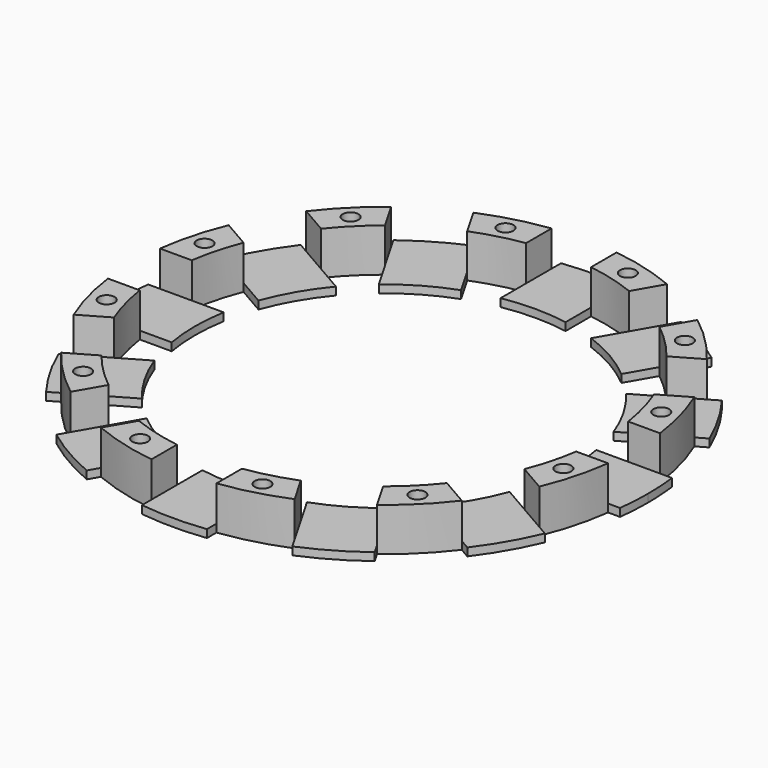
from build123d import *

# Parameters (mm, degrees)
F1_DEPTH = 2
F0_R     = 2
F2_DEPTH = 11


with BuildPart() as f1:
    # F0 (on Top) → F1 (new body)
    with BuildSketch(Plane.XY):
        with BuildLine():
            ThreePointArc((36.8256181272, 30.7875599804), (41.5692193817, 24), (45.0756181272, 16.498140818))
            Line((45.0756181272, 16.498140818), (52.0932512189, 20.5497731726))
            ThreePointArc((52.0932512189, 20.5497731726), (48.4974226119, 28), (43.8432512189, 34.839192335))
            Line((43.8432512189, 34.839192335), (36.8256181272, 30.7875599804))
        make_face()
        with BuildLine():
            ThreePointArc((43.8432512189, 34.839192335), (48.4974226119, 28), (52.0932512189, 20.5497731726))
            Line((52.0932512189, 20.5497731726), (59.0881979146, 24.5883075303))
            ThreePointArc((59.0881979146, 24.5883075303), (55.4256258422, 32), (50.8381979146, 38.8777266927))
            Line((50.8381979146, 38.8777266927), (43.8432512189, 34.839192335))
        make_face()
        with BuildLine():
            ThreePointArc((50.8381979146, 38.8777266927), (55.4256258422, 32), (59.0881979146, 24.5883075303))
            Line((59.0881979146, 24.5883075303), (61.7071424141, 26.1003558421))
            ThreePointArc((61.7071424141, 26.1003558421), (58.0237020536, 33.5), (53.4571424141, 40.3897750045))
            Line((53.4571424141, 40.3897750045), (50.8381979146, 38.8777266927))
        make_face()
    extrude(amount=F1_DEPTH)



with BuildPart() as f1b:
    # F0 (on Top) → F1, piece 2 (new body)
    with BuildSketch(Plane.XY):
        with BuildLine():
            ThreePointArc((48, 0), (47.8210917814, -4.1404324457), (47.2857007984, -8.25))
            Line((47.2857007984, -8.25), (55.3889655076, -8.25))
            ThreePointArc((55.3889655076, -8.25), (55.8470324566, -4.1362985612), (56, 0))
            ThreePointArc((56, 0), (55.8470324566, 4.1362985612), (55.3889655076, 8.25))
            Line((55.3889655076, 8.25), (47.2857007984, 8.25))
            ThreePointArc((47.2857007984, 8.25), (47.8210917814, 4.1404324457), (48, 0))
        make_face()
        with BuildLine():
            ThreePointArc((56, 0), (55.8470324566, -4.1362985612), (55.3889655076, -8.25))
            Line((55.3889655076, -8.25), (63.466034223, -8.25))
            ThreePointArc((63.466034223, -8.25), (63.8663690461, -4.1336309539), (64, 0))
            ThreePointArc((64, 0), (63.8663690461, 4.1336309539), (63.466034223, 8.25))
            Line((63.466034223, 8.25), (55.3889655076, 8.25))
            ThreePointArc((55.3889655076, 8.25), (55.8470324566, 4.1362985612), (56, 0))
        make_face()
        with BuildLine():
            ThreePointArc((64, 0), (63.8663690461, -4.1336309539), (63.466034223, -8.25))
            Line((63.466034223, -8.25), (66.4901308466, -8.25))
            ThreePointArc((66.4901308466, -8.25), (66.8724112274, -4.1328702663), (67, 0))
            ThreePointArc((67, 0), (66.8724112274, 4.1328702663), (66.4901308466, 8.25))
            Line((66.4901308466, 8.25), (63.466034223, 8.25))
            ThreePointArc((63.466034223, 8.25), (63.8663690461, 4.1336309539), (64, 0))
        make_face()
    extrude(amount=F1_DEPTH)


with BuildPart() as f1c:
    # F0 (on Top) → F1, piece 3 (new body)
    with BuildSketch(Plane.XY):
        with BuildLine():
            ThreePointArc((45.0756181272, -16.498140818), (41.5692193817, -24), (36.8256181272, -30.7875599804))
            Line((36.8256181272, -30.7875599804), (43.8432512189, -34.839192335))
            ThreePointArc((43.8432512189, -34.839192335), (48.4974226119, -28), (52.0932512189, -20.5497731726))
            Line((52.0932512189, -20.5497731726), (45.0756181272, -16.498140818))
        make_face()
        with BuildLine():
            ThreePointArc((52.0932512189, -20.5497731726), (48.4974226119, -28), (43.8432512189, -34.839192335))
            Line((43.8432512189, -34.839192335), (50.8381979146, -38.8777266927))
            ThreePointArc((50.8381979146, -38.8777266927), (55.4256258422, -32), (59.0881979146, -24.5883075303))
            Line((59.0881979146, -24.5883075303), (52.0932512189, -20.5497731726))
        make_face()
        with BuildLine():
            ThreePointArc((59.0881979146, -24.5883075303), (55.4256258422, -32), (50.8381979146, -38.8777266927))
            Line((50.8381979146, -38.8777266927), (53.4571424141, -40.3897750045))
            ThreePointArc((53.4571424141, -40.3897750045), (58.0237020536, -33.5), (61.7071424141, -26.1003558421))
            Line((61.7071424141, -26.1003558421), (59.0881979146, -24.5883075303))
        make_face()
    extrude(amount=F1_DEPTH)


with BuildPart() as f1d:
    # F0 (on Top) → F1, piece 4 (new body)
    with BuildSketch(Plane.XY):
        with BuildLine():
            ThreePointArc((30.7875599804, -36.8256181272), (24, -41.5692193817), (16.498140818, -45.0756181272))
            Line((16.498140818, -45.0756181272), (20.5497731726, -52.0932512189))
            ThreePointArc((20.5497731726, -52.0932512189), (28, -48.4974226119), (34.839192335, -43.8432512189))
            Line((34.839192335, -43.8432512189), (30.7875599804, -36.8256181272))
        make_face()
        with BuildLine():
            ThreePointArc((34.839192335, -43.8432512189), (28, -48.4974226119), (20.5497731726, -52.0932512189))
            Line((20.5497731726, -52.0932512189), (24.5883075303, -59.0881979146))
            ThreePointArc((24.5883075303, -59.0881979146), (32, -55.4256258422), (38.8777266927, -50.8381979146))
            Line((38.8777266927, -50.8381979146), (34.839192335, -43.8432512189))
        make_face()
        with BuildLine():
            ThreePointArc((38.8777266927, -50.8381979146), (32, -55.4256258422), (24.5883075303, -59.0881979146))
            Line((24.5883075303, -59.0881979146), (26.1003558421, -61.7071424141))
            ThreePointArc((26.1003558421, -61.7071424141), (33.5, -58.0237020536), (40.3897750045, -53.4571424141))
            Line((40.3897750045, -53.4571424141), (38.8777266927, -50.8381979146))
        make_face()
    extrude(amount=F1_DEPTH)


with BuildPart() as f1e:
    # F0 (on Top) → F1, piece 5 (new body)
    with BuildSketch(Plane.XY):
        with BuildLine():
            Line((8.25, -55.3889655076), (8.25, -47.2857007984))
            ThreePointArc((8.25, -47.2857007984), (0, -48), (-8.25, -47.2857007984))
            Line((-8.25, -47.2857007984), (-8.25, -55.3889655076))
            ThreePointArc((-8.25, -55.3889655076), (0, -56), (8.25, -55.3889655076))
        make_face()
        with BuildLine():
            Line((8.25, -63.466034223), (8.25, -55.3889655076))
            ThreePointArc((8.25, -55.3889655076), (0, -56), (-8.25, -55.3889655076))
            Line((-8.25, -55.3889655076), (-8.25, -63.466034223))
            ThreePointArc((-8.25, -63.466034223), (0, -64), (8.25, -63.466034223))
        make_face()
        with BuildLine():
            Line((8.25, -66.4901308466), (8.25, -63.466034223))
            ThreePointArc((8.25, -63.466034223), (0, -64), (-8.25, -63.466034223))
            Line((-8.25, -63.466034223), (-8.25, -66.4901308466))
            ThreePointArc((-8.25, -66.4901308466), (0, -67), (8.25, -66.4901308466))
        make_face()
    extrude(amount=F1_DEPTH)


with BuildPart() as f1f:
    # F0 (on Top) → F1, piece 6 (new body)
    with BuildSketch(Plane.XY):
        with BuildLine():
            Line((-26.1003558421, -61.7071424141), (-24.5883075303, -59.0881979146))
            ThreePointArc((-24.5883075303, -59.0881979146), (-32, -55.4256258422), (-38.8777266927, -50.8381979146))
            Line((-38.8777266927, -50.8381979146), (-40.3897750045, -53.4571424141))
            ThreePointArc((-40.3897750045, -53.4571424141), (-33.5, -58.0237020536), (-26.1003558421, -61.7071424141))
        make_face()
        with BuildLine():
            Line((-24.5883075303, -59.0881979146), (-20.5497731726, -52.0932512189))
            ThreePointArc((-20.5497731726, -52.0932512189), (-28, -48.4974226119), (-34.839192335, -43.8432512189))
            Line((-34.839192335, -43.8432512189), (-38.8777266927, -50.8381979146))
            ThreePointArc((-38.8777266927, -50.8381979146), (-32, -55.4256258422), (-24.5883075303, -59.0881979146))
        make_face()
        with BuildLine():
            Line((-20.5497731726, -52.0932512189), (-16.498140818, -45.0756181272))
            ThreePointArc((-16.498140818, -45.0756181272), (-24, -41.5692193817), (-30.7875599804, -36.8256181272))
            Line((-30.7875599804, -36.8256181272), (-34.839192335, -43.8432512189))
            ThreePointArc((-34.839192335, -43.8432512189), (-28, -48.4974226119), (-20.5497731726, -52.0932512189))
        make_face()
    extrude(amount=F1_DEPTH)


with BuildPart() as f1g:
    # F0 (on Top) → F1, piece 7 (new body)
    with BuildSketch(Plane.XY):
        with BuildLine():
            Line((-43.8432512189, -34.839192335), (-36.8256181272, -30.7875599804))
            ThreePointArc((-36.8256181272, -30.7875599804), (-41.5692193817, -24), (-45.0756181272, -16.498140818))
            Line((-45.0756181272, -16.498140818), (-52.0932512189, -20.5497731726))
            ThreePointArc((-52.0932512189, -20.5497731726), (-48.4974226119, -28), (-43.8432512189, -34.839192335))
        make_face()
        with BuildLine():
            Line((-50.8381979146, -38.8777266927), (-43.8432512189, -34.839192335))
            ThreePointArc((-43.8432512189, -34.839192335), (-48.4974226119, -28), (-52.0932512189, -20.5497731726))
            Line((-52.0932512189, -20.5497731726), (-59.0881979146, -24.5883075303))
            ThreePointArc((-59.0881979146, -24.5883075303), (-55.4256258422, -32), (-50.8381979146, -38.8777266927))
        make_face()
        with BuildLine():
            Line((-53.4571424141, -40.3897750045), (-50.8381979146, -38.8777266927))
            ThreePointArc((-50.8381979146, -38.8777266927), (-55.4256258422, -32), (-59.0881979146, -24.5883075303))
            Line((-59.0881979146, -24.5883075303), (-61.7071424141, -26.1003558421))
            ThreePointArc((-61.7071424141, -26.1003558421), (-58.0237020536, -33.5), (-53.4571424141, -40.3897750045))
        make_face()
    extrude(amount=F1_DEPTH)


with BuildPart() as f1h:
    # F0 (on Top) → F1, piece 8 (new body)
    with BuildSketch(Plane.XY):
        with BuildLine():
            Line((-66.4901308466, -8.25), (-63.466034223, -8.25))
            ThreePointArc((-63.466034223, -8.25), (-64, 0), (-63.466034223, 8.25))
            Line((-63.466034223, 8.25), (-66.4901308466, 8.25))
            ThreePointArc((-66.4901308466, 8.25), (-67, 0), (-66.4901308466, -8.25))
        make_face()
        with BuildLine():
            Line((-63.466034223, -8.25), (-55.3889655076, -8.25))
            ThreePointArc((-55.3889655076, -8.25), (-56, 0), (-55.3889655076, 8.25))
            Line((-55.3889655076, 8.25), (-63.466034223, 8.25))
            ThreePointArc((-63.466034223, 8.25), (-64, 0), (-63.466034223, -8.25))
        make_face()
        with BuildLine():
            Line((-55.3889655076, -8.25), (-47.2857007984, -8.25))
            ThreePointArc((-47.2857007984, -8.25), (-48, 0), (-47.2857007984, 8.25))
            Line((-47.2857007984, 8.25), (-55.3889655076, 8.25))
            ThreePointArc((-55.3889655076, 8.25), (-56, 0), (-55.3889655076, -8.25))
        make_face()
    extrude(amount=F1_DEPTH)


with BuildPart() as f1i:
    # F0 (on Top) → F1, piece 9 (new body)
    with BuildSketch(Plane.XY):
        with BuildLine():
            Line((-61.7071424141, 26.1003558421), (-59.0881979146, 24.5883075303))
            ThreePointArc((-59.0881979146, 24.5883075303), (-55.4256258422, 32), (-50.8381979146, 38.8777266927))
            Line((-50.8381979146, 38.8777266927), (-53.4571424141, 40.3897750045))
            ThreePointArc((-53.4571424141, 40.3897750045), (-58.0237020536, 33.5), (-61.7071424141, 26.1003558421))
        make_face()
        with BuildLine():
            Line((-59.0881979146, 24.5883075303), (-52.0932512189, 20.5497731726))
            ThreePointArc((-52.0932512189, 20.5497731726), (-48.4974226119, 28), (-43.8432512189, 34.839192335))
            Line((-43.8432512189, 34.839192335), (-50.8381979146, 38.8777266927))
            ThreePointArc((-50.8381979146, 38.8777266927), (-55.4256258422, 32), (-59.0881979146, 24.5883075303))
        make_face()
        with BuildLine():
            Line((-52.0932512189, 20.5497731726), (-45.0756181272, 16.498140818))
            ThreePointArc((-45.0756181272, 16.498140818), (-41.5692193817, 24), (-36.8256181272, 30.7875599804))
            Line((-36.8256181272, 30.7875599804), (-43.8432512189, 34.839192335))
            ThreePointArc((-43.8432512189, 34.839192335), (-48.4974226119, 28), (-52.0932512189, 20.5497731726))
        make_face()
    extrude(amount=F1_DEPTH)


with BuildPart() as f1j:
    # F0 (on Top) → F1, piece 10 (new body)
    with BuildSketch(Plane.XY):
        with BuildLine():
            Line((-40.3897750045, 53.4571424141), (-38.8777266927, 50.8381979146))
            ThreePointArc((-38.8777266927, 50.8381979146), (-32, 55.4256258422), (-24.5883075303, 59.0881979146))
            Line((-24.5883075303, 59.0881979146), (-26.1003558421, 61.7071424141))
            ThreePointArc((-26.1003558421, 61.7071424141), (-33.5, 58.0237020536), (-40.3897750045, 53.4571424141))
        make_face()
        with BuildLine():
            Line((-38.8777266927, 50.8381979146), (-34.839192335, 43.8432512189))
            ThreePointArc((-34.839192335, 43.8432512189), (-28, 48.4974226119), (-20.5497731726, 52.0932512189))
            Line((-20.5497731726, 52.0932512189), (-24.5883075303, 59.0881979146))
            ThreePointArc((-24.5883075303, 59.0881979146), (-32, 55.4256258422), (-38.8777266927, 50.8381979146))
        make_face()
        with BuildLine():
            Line((-34.839192335, 43.8432512189), (-30.7875599804, 36.8256181272))
            ThreePointArc((-30.7875599804, 36.8256181272), (-24, 41.5692193817), (-16.498140818, 45.0756181272))
            Line((-16.498140818, 45.0756181272), (-20.5497731726, 52.0932512189))
            ThreePointArc((-20.5497731726, 52.0932512189), (-28, 48.4974226119), (-34.839192335, 43.8432512189))
        make_face()
    extrude(amount=F1_DEPTH)


with BuildPart() as f1k:
    # F0 (on Top) → F1, piece 11 (new body)
    with BuildSketch(Plane.XY):
        with BuildLine():
            Line((-8.25, 66.4901308466), (-8.25, 63.466034223))
            ThreePointArc((-8.25, 63.466034223), (0, 64), (8.25, 63.466034223))
            Line((8.25, 63.466034223), (8.25, 66.4901308466))
            ThreePointArc((8.25, 66.4901308466), (0, 67), (-8.25, 66.4901308466))
        make_face()
        with BuildLine():
            Line((-8.25, 63.466034223), (-8.25, 55.3889655076))
            ThreePointArc((-8.25, 55.3889655076), (0, 56), (8.25, 55.3889655076))
            Line((8.25, 55.3889655076), (8.25, 63.466034223))
            ThreePointArc((8.25, 63.466034223), (0, 64), (-8.25, 63.466034223))
        make_face()
        with BuildLine():
            Line((-8.25, 55.3889655076), (-8.25, 47.2857007984))
            ThreePointArc((-8.25, 47.2857007984), (0, 48), (8.25, 47.2857007984))
            Line((8.25, 47.2857007984), (8.25, 55.3889655076))
            ThreePointArc((8.25, 55.3889655076), (0, 56), (-8.25, 55.3889655076))
        make_face()
    extrude(amount=F1_DEPTH)


with BuildPart() as f1l:
    # F0 (on Top) → F1, piece 12 (new body)
    with BuildSketch(Plane.XY):
        with BuildLine():
            ThreePointArc((24.5883075303, 59.0881979146), (32, 55.4256258422), (38.8777266927, 50.8381979146))
            Line((38.8777266927, 50.8381979146), (40.3897750045, 53.4571424141))
            ThreePointArc((40.3897750045, 53.4571424141), (33.5, 58.0237020536), (26.1003558421, 61.7071424141))
            Line((26.1003558421, 61.7071424141), (24.5883075303, 59.0881979146))
        make_face()
        with BuildLine():
            ThreePointArc((20.5497731726, 52.0932512189), (28, 48.4974226119), (34.839192335, 43.8432512189))
            Line((34.839192335, 43.8432512189), (38.8777266927, 50.8381979146))
            ThreePointArc((38.8777266927, 50.8381979146), (32, 55.4256258422), (24.5883075303, 59.0881979146))
            Line((24.5883075303, 59.0881979146), (20.5497731726, 52.0932512189))
        make_face()
        with BuildLine():
            ThreePointArc((16.498140818, 45.0756181272), (24, 41.5692193817), (30.7875599804, 36.8256181272))
            Line((30.7875599804, 36.8256181272), (34.839192335, 43.8432512189))
            ThreePointArc((34.839192335, 43.8432512189), (28, 48.4974226119), (20.5497731726, 52.0932512189))
            Line((20.5497731726, 52.0932512189), (16.498140818, 45.0756181272))
        make_face()
    extrude(amount=F1_DEPTH)


with BuildPart() as f1_1:
    add(f1.part)

    add(f1b.part)  # F2 merges F1b

    add(f1c.part)  # F2 merges F1c

    add(f1d.part)  # F2 merges F1d

    add(f1e.part)  # F2 merges F1e

    add(f1f.part)  # F2 merges F1f

    add(f1g.part)  # F2 merges F1g

    add(f1h.part)  # F2 merges F1h

    add(f1i.part)  # F2 merges F1i

    add(f1j.part)  # F2 merges F1j

    add(f1k.part)  # F2 merges F1k

    add(f1l.part)  # F2 merges F1l
    # F0 (on Top) → F2 (join)
    with BuildSketch(Plane.XY):
        with BuildLine():
            ThreePointArc((8.25, 55.3889655076), (14.4938665257, 54.0918462722), (20.5497731726, 52.0932512189))
            Line((20.5497731726, 52.0932512189), (24.5883075303, 59.0881979146))
            ThreePointArc((24.5883075303, 59.0881979146), (16.5644188866, 61.8192528825), (8.25, 63.466034223))
            Line((8.25, 63.466034223), (8.25, 55.3889655076))
        make_face()
        with Locations((15.5291427062, 57.9555495773)):
            Circle(F0_R, mode=Mode.SUBTRACT)
        with BuildLine():
            ThreePointArc((34.839192335, 43.8432512189), (39.5979797464, 39.5979797464), (43.8432512189, 34.839192335))
            Line((43.8432512189, 34.839192335), (50.8381979146, 38.8777266927))
            ThreePointArc((50.8381979146, 38.8777266927), (45.2548339959, 45.2548339959), (38.8777266927, 50.8381979146))
            Line((38.8777266927, 50.8381979146), (34.839192335, 43.8432512189))
        make_face()
        with Locations((42.4264068712, 42.4264068712)):
            Circle(F0_R, mode=Mode.SUBTRACT)
        with BuildLine():
            ThreePointArc((52.0932512189, 20.5497731726), (54.0918462722, 14.4938665257), (55.3889655076, 8.25))
            Line((55.3889655076, 8.25), (63.466034223, 8.25))
            ThreePointArc((63.466034223, 8.25), (61.8192528825, 16.5644188866), (59.0881979146, 24.5883075303))
            Line((59.0881979146, 24.5883075303), (52.0932512189, 20.5497731726))
        make_face()
        with Locations((57.9555495773, 15.5291427062)):
            Circle(F0_R, mode=Mode.SUBTRACT)
        with BuildLine():
            ThreePointArc((55.3889655076, -8.25), (54.0918462722, -14.4938665257), (52.0932512189, -20.5497731726))
            Line((52.0932512189, -20.5497731726), (59.0881979146, -24.5883075303))
            ThreePointArc((59.0881979146, -24.5883075303), (61.8192528825, -16.5644188866), (63.466034223, -8.25))
            Line((63.466034223, -8.25), (55.3889655076, -8.25))
        make_face()
        with Locations((57.9555495773, -15.5291427062)):
            Circle(F0_R, mode=Mode.SUBTRACT)
        with BuildLine():
            ThreePointArc((43.8432512189, -34.839192335), (39.5979797464, -39.5979797464), (34.839192335, -43.8432512189))
            Line((34.839192335, -43.8432512189), (38.8777266927, -50.8381979146))
            ThreePointArc((38.8777266927, -50.8381979146), (45.2548339959, -45.2548339959), (50.8381979146, -38.8777266927))
            Line((50.8381979146, -38.8777266927), (43.8432512189, -34.839192335))
        make_face()
        with Locations((42.4264068712, -42.4264068712)):
            Circle(F0_R, mode=Mode.SUBTRACT)
        with BuildLine():
            ThreePointArc((20.5497731726, -52.0932512189), (14.4938665257, -54.0918462722), (8.25, -55.3889655076))
            Line((8.25, -55.3889655076), (8.25, -63.466034223))
            ThreePointArc((8.25, -63.466034223), (16.5644188866, -61.8192528825), (24.5883075303, -59.0881979146))
            Line((24.5883075303, -59.0881979146), (20.5497731726, -52.0932512189))
        make_face()
        with Locations((15.5291427062, -57.9555495773)):
            Circle(F0_R, mode=Mode.SUBTRACT)
        with BuildLine():
            Line((-8.25, -63.466034223), (-8.25, -55.3889655076))
            ThreePointArc((-8.25, -55.3889655076), (-14.4938665257, -54.0918462722), (-20.5497731726, -52.0932512189))
            Line((-20.5497731726, -52.0932512189), (-24.5883075303, -59.0881979146))
            ThreePointArc((-24.5883075303, -59.0881979146), (-16.5644188866, -61.8192528825), (-8.25, -63.466034223))
        make_face()
        with Locations((-15.5291427062, -57.9555495773)):
            Circle(F0_R, mode=Mode.SUBTRACT)
        with BuildLine():
            Line((-38.8777266927, -50.8381979146), (-34.839192335, -43.8432512189))
            ThreePointArc((-34.839192335, -43.8432512189), (-39.5979797464, -39.5979797464), (-43.8432512189, -34.839192335))
            Line((-43.8432512189, -34.839192335), (-50.8381979146, -38.8777266927))
            ThreePointArc((-50.8381979146, -38.8777266927), (-45.2548339959, -45.2548339959), (-38.8777266927, -50.8381979146))
        make_face()
        with Locations((-42.4264068712, -42.4264068712)):
            Circle(F0_R, mode=Mode.SUBTRACT)
        with BuildLine():
            Line((-59.0881979146, -24.5883075303), (-52.0932512189, -20.5497731726))
            ThreePointArc((-52.0932512189, -20.5497731726), (-54.0918462722, -14.4938665257), (-55.3889655076, -8.25))
            Line((-55.3889655076, -8.25), (-63.466034223, -8.25))
            ThreePointArc((-63.466034223, -8.25), (-61.8192528825, -16.5644188866), (-59.0881979146, -24.5883075303))
        make_face()
        with Locations((-57.9555495773, -15.5291427062)):
            Circle(F0_R, mode=Mode.SUBTRACT)
        with BuildLine():
            Line((-63.466034223, 8.25), (-55.3889655076, 8.25))
            ThreePointArc((-55.3889655076, 8.25), (-54.0918462722, 14.4938665257), (-52.0932512189, 20.5497731726))
            Line((-52.0932512189, 20.5497731726), (-59.0881979146, 24.5883075303))
            ThreePointArc((-59.0881979146, 24.5883075303), (-61.8192528825, 16.5644188866), (-63.466034223, 8.25))
        make_face()
        with Locations((-57.9555495773, 15.5291427062)):
            Circle(F0_R, mode=Mode.SUBTRACT)
        with BuildLine():
            Line((-50.8381979146, 38.8777266927), (-43.8432512189, 34.839192335))
            ThreePointArc((-43.8432512189, 34.839192335), (-39.5979797464, 39.5979797464), (-34.839192335, 43.8432512189))
            Line((-34.839192335, 43.8432512189), (-38.8777266927, 50.8381979146))
            ThreePointArc((-38.8777266927, 50.8381979146), (-45.2548339959, 45.2548339959), (-50.8381979146, 38.8777266927))
        make_face()
        with Locations((-42.4264068712, 42.4264068712)):
            Circle(F0_R, mode=Mode.SUBTRACT)
        with BuildLine():
            Line((-24.5883075303, 59.0881979146), (-20.5497731726, 52.0932512189))
            ThreePointArc((-20.5497731726, 52.0932512189), (-14.4938665257, 54.0918462722), (-8.25, 55.3889655076))
            Line((-8.25, 55.3889655076), (-8.25, 63.466034223))
            ThreePointArc((-8.25, 63.466034223), (-16.5644188866, 61.8192528825), (-24.5883075303, 59.0881979146))
        make_face()
        with Locations((-15.5291427062, 57.9555495773)):
            Circle(F0_R, mode=Mode.SUBTRACT)
    extrude(amount=F2_DEPTH)


solid = f1_1.part
